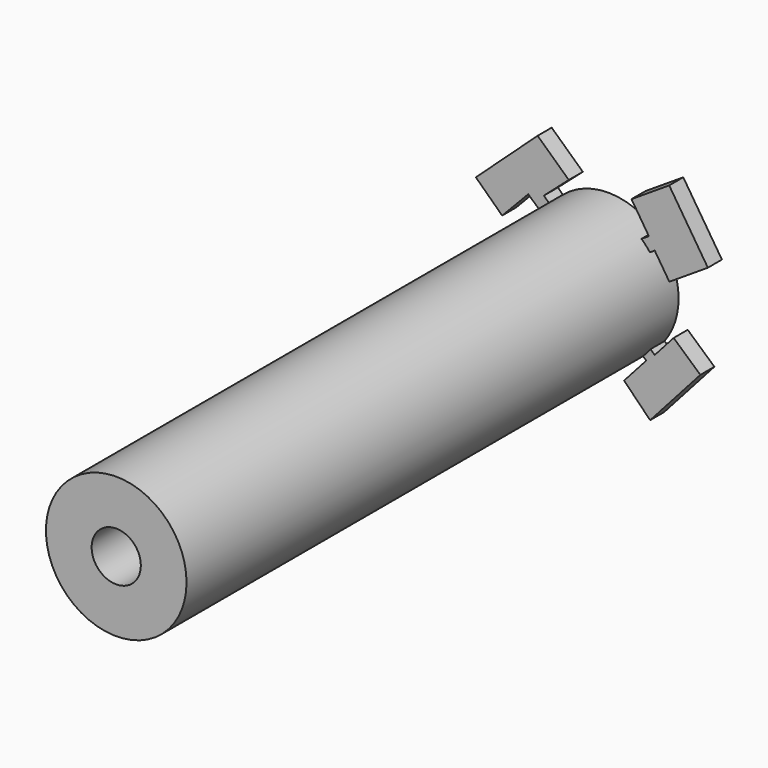
from build123d import *

# Parameters (mm, degrees)
F0_R     = 4
F0_R_2   = 1.4
F1_DEPTH = 35
F4_DEPTH = 1


with BuildPart() as f1:
    # F0 (on Front) → F1 (new body)
    with BuildSketch(Plane.XZ):
        Circle(F0_R)
        Circle(F0_R_2, mode=Mode.SUBTRACT)
    extrude(amount=F1_DEPTH)

    # F3 (on face) → F4 (join)
    with BuildSketch(Plane(origin=(0, 0, 0), x_dir=(-1, 0, 0), z_dir=(0, 1, 0))):
        Polygon((-3.441267, 2.621837), (-2.658013, 2.116282), (-2.527552, 2.052343), (-2.159969, 2.621837), (-3.109507, 3.23472), (-2.119805, 4.768063), (-4.266258, 6.153501), (-6.466136, 2.745238), (-4.274626, 1.330718), align=None)
        Polygon((-2.259792, -2.418553), (-2.658013, -1.912313), (-3.441267, -2.611758), (-4.519502, -1.404327), (-6.038423, -2.760721), (-3.180103, -5.961532), (-1.700384, -4.458029), (-2.961811, -3.045455), align=None)
        Polygon((3.877339, -2.704357), (2.650228, -1.912313), (2.136546, -2.549902), (3.276904, -3.285951), (2.340704, -4.736403), (4.467671, -6.109263), (7.312901, -1.701158), (5.213581, -0.634123), align=None)
        Polygon((2.864772, 3.32476), (2.136546, 2.621837), (2.650228, 2.116282), (3.755631, 3.103405), (5.239515, 1.551226), (6.736414, 2.982262), (3.221487, 6.206864), (1.448484, 4.569151), align=None)
    extrude(amount=-F4_DEPTH)


solid = f1.part
